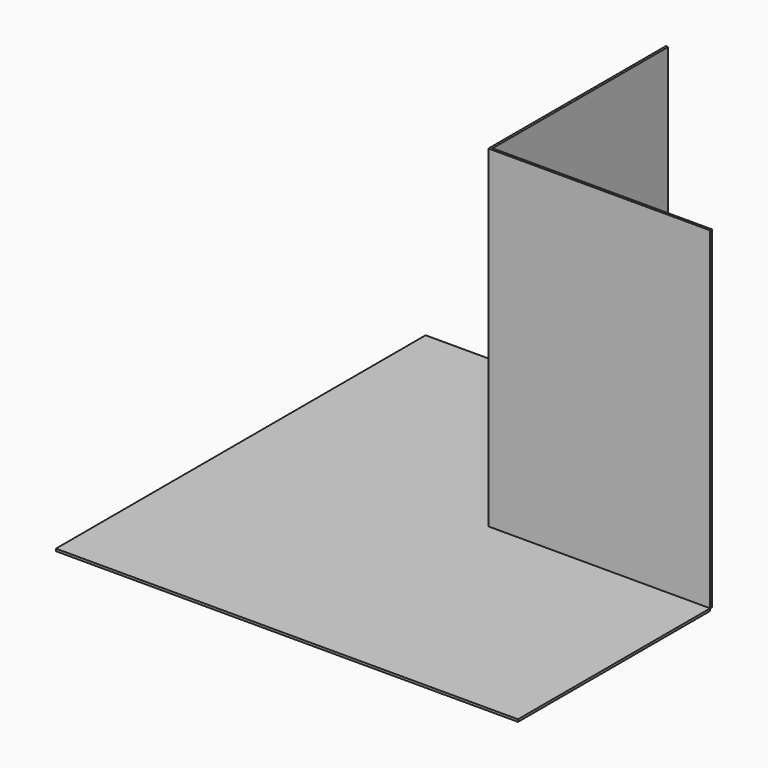
from build123d import *

# Parameters (mm, degrees)
F0_W     = 152.4
F0_H     = 228.6
F3_DEPTH = 1.5875
F1_W     = 152.4
F1_H     = 228.6
F4_DEPTH = 1.5875
F5_DEPTH = 1.5875


with BuildPart() as f3:
    # F0 (on Front) → F3 (new body)
    with BuildSketch(Plane.XZ):
        with Locations((76.2, 114.3)):
            Rectangle(F0_W, F0_H)
    extrude(amount=-F3_DEPTH)

    # F1 (on Right) → F4 (join)
    with BuildSketch(Plane.YZ):
        with Locations((76.2, 114.3)):
            Rectangle(F1_W, F1_H)
    extrude(amount=F4_DEPTH)


with BuildPart() as f5:
    # F2 (on Top) → F5 (new body)
    with BuildSketch(Plane.XY):
        Polygon((152.4, 0), (0, 0), (0, 152.4), (-165.1, 152.4), (-165.1, -165.1), (152.4, -165.1), align=None)
    extrude(amount=-F5_DEPTH)


solid = Compound([f3.part, f5.part])
